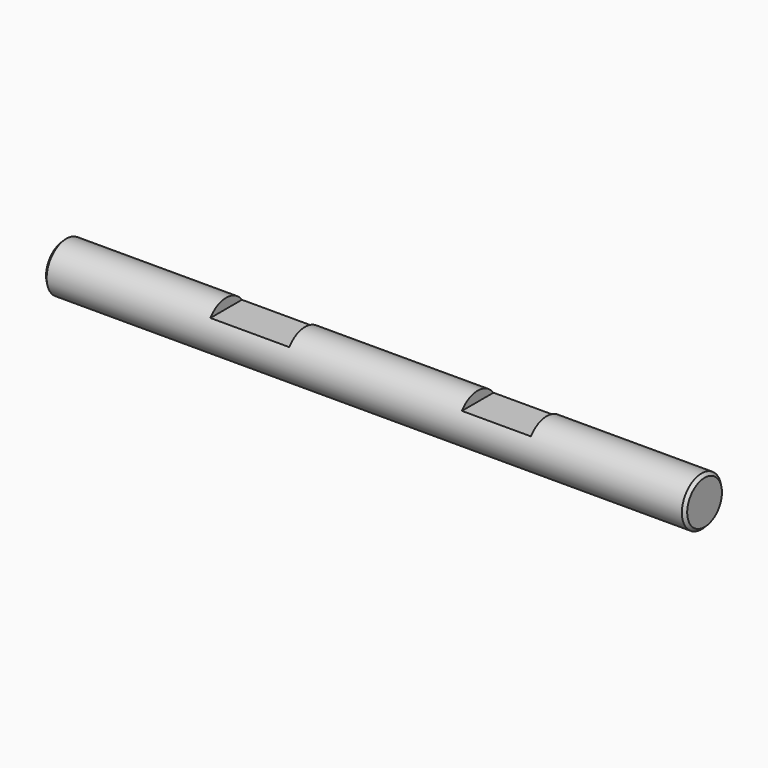
from build123d import *

# Parameters (mm, degrees)
SKETCH_R      = 2.5
PAD_DEPTH     = 65
SKETCH001_W   = 8
SKETCH001_H   = 6
SKETCH001_W_2 = 7
POCKET_DEPTH  = 1.5
CHAMFER_SIZE  = 0.3


with BuildPart() as part:
    # Sketch → Pad (new body)
    with BuildSketch(Plane.YZ):
        Circle(SKETCH_R)
    extrude(amount=PAD_DEPTH)

    # Sketch001 → Pocket (cut)
    with BuildSketch(Plane.XY.offset(3)):
        with Locations((20.5, 0)):
            Rectangle(SKETCH001_W, SKETCH001_H)
        with Locations((45.5, 0)):
            Rectangle(SKETCH001_W_2, SKETCH001_H)
    extrude(amount=-POCKET_DEPTH, mode=Mode.SUBTRACT)

    # Chamfer
    chamfer_edges = [part.edges().sort_by_distance(p)[0] for p in [
        (0, -2.5, 0),
        (65, -2.5, 0),
    ]]
    chamfer(chamfer_edges, length=CHAMFER_SIZE)


solid = part.part
